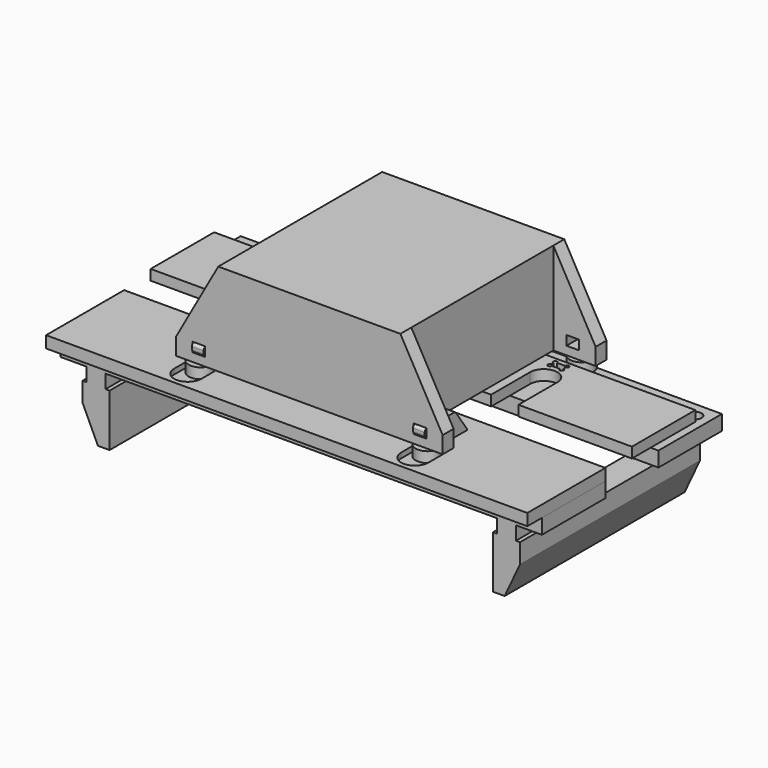
from build123d import *

# Parameters (mm, degrees)
PAD_DEPTH                       = 16
POCKET_DEPTH                    = 16.001
LINEARPATTERN_COUNT             = 2
LINEARPATTERN_PITCH             = 340
SKETCH003_R                     = 4.4
HOLE_DEPTH                      = 16.001
PAD001_DEPTH                    = 9
FILLET_R                        = 3
SKETCH004_R                     = 11
PAD002_DEPTH                    = 22
HOLE001_D                       = 8.8
HOLE001_CBORE_D                 = 16
HOLE001_CBORE_DEPTH             = 4.8
CHAMFER_SIZE                    = 1
BODY002_PLACEMENT_ANGLE         = 180
SKETCH006_W                     = 740
SKETCH006_H                     = 346
PAD005_DEPTH                    = 23
SKETCH010_W                     = 29
SKETCH010_H                     = 86.5
PAD006_DEPTH                    = 21
PAD007_DEPTH                    = 173
SKETCH012_W                     = 740
SKETCH012_H                     = 102
POCKET002_DEPTH                 = 23
SKETCH013_R                     = 10
POCKET003_DEPTH                 = 23
POLARPATTERN_COUNT              = 2
SKETCH007_W                     = 19.6
SKETCH007_H                     = 14.5
PAD003_DEPTH                    = 157.5
SKETCH009_W                     = 65
SKETCH009_H                     = 273
POCKET001_DEPTH                 = 158.001
SKETCH008_R                     = 18.5
PAD004_DEPTH                    = 16
SKETCH008_LINEARPATTERN001_2_R  = 18.5
PAD004_LINEARPATTERN001_2_DEPTH = 16
LINEARPATTERN002_COUNT          = 2
LINEARPATTERN002_PITCH          = 296
SKETCH014_W                     = 740
SKETCH014_H                     = 150
PAD008_DEPTH                    = 8
PAD008_DEPTH_BACK               = 10
POCKET004_DEPTH                 = 8.001
PAD009_DEPTH                    = 9
LINEARPATTERN003_COUNT          = 2
LINEARPATTERN003_PITCH          = 340
BODY006_PLACEMENT_ANGLE         = 180


with BuildPart() as grundplatte:
    # Sketch → Pad (new body)
    with BuildSketch(Plane.XY):
        with BuildLine():
            Line((-370, 122), (370, 122))
            Line((370, 122), (370, 0))
            Line((370, 0), (195.5, 0))
            Line((195.5, 75), (195.5, 0))
            ThreePointArc((195.5, 75), (174.5, 96), (153.5, 75))
            Line((153.5, 75), (153.5, 0))
            Line((153.5, 0), (-153.5, 0))
            Line((-153.5, 75), (-153.5, 0))
            ThreePointArc((-153.5, 75), (-174.5, 96), (-195.5, 75))
            Line((-195.5, 75), (-195.5, 0))
            Line((-195.5, 0), (-370, 0))
            Line((-370, 0), (-370, 122))
        make_face()
    extrude(amount=PAD_DEPTH)

    # Sketch002 → Pocket (cut, through all)
    with BuildSketch(Plane.XY):
        with BuildLine():
            Line((-160.9, 111), (-160.9, 106.9))
            ThreePointArc((-163.9, 103.9), (-158.77868, 101.77868), (-160.9, 106.9))
            Line((-176.1, 103.9), (-163.9, 103.9))
            ThreePointArc((-179.1, 106.9), (-181.22132, 101.77868), (-176.1, 103.9))
            Line((-179.1, 106.9), (-179.1, 111))
            ThreePointArc((-176.1, 114), (-181.22132, 116.12132), (-179.1, 111))
            Line((-176.1, 114), (-163.9, 114))
            ThreePointArc((-160.9, 111), (-158.77868, 116.12132), (-163.9, 114))
        make_face()
    pocket = extrude(amount=POCKET_DEPTH, mode=Mode.SUBTRACT)

    # LinearPattern: Pocket ×2
    with Locations(*[(i * LINEARPATTERN_PITCH, 0, 0) for i in range(1, LINEARPATTERN_COUNT)]):
        add(pocket, mode=Mode.SUBTRACT)

    # Sketch003 (on Face5 of LinearPattern) → Hole (cut, through all)
    with BuildSketch(Plane.XY.offset(16)):
        with Locations((-76, 22)):
            Circle(SKETCH003_R)
        with Locations((76, 22)):
            Circle(SKETCH003_R)
    extrude(amount=-HOLE_DEPTH, mode=Mode.SUBTRACT)


with BuildPart() as haken:
    # Sketch001 → Pad001 (new body, symmetric)
    with BuildSketch(Plane.YZ):
        Polygon((-30, 58), (-30, 46.76327), (-20, 45), (-10, 45), (-10, 0), (0, 0), (0, 58), align=None)
    extrude(amount=PAD001_DEPTH, both=True)

    # Fillet
    fillet_edges = [haken.edges().sort_by_distance(p)[0] for p in [
        (0, -30, 58),
        (0, -30, 46.76327),
        (0, 0, 58),
        (0, -10, 45),
        (0, -20, 45),
    ]]
    fillet(fillet_edges, radius=FILLET_R)


with BuildPart() as haken_1:
    # Body001 placement: moved
    add(haken.part.moved(Location((-170, 114, 0))))


with BuildPart() as obj1:
    # Sketch004 → Pad002 (new body)
    with BuildSketch(Plane.XY):
        Circle(SKETCH004_R)
    extrude(amount=PAD002_DEPTH)

    # Hole001 (through all)
    with Locations(Plane.XY.offset(22)):
        with Locations((0, 0)):
            CounterBoreHole(HOLE001_D / 2, HOLE001_CBORE_D / 2, HOLE001_CBORE_DEPTH)

    # Chamfer
    chamfer_edges = [obj1.edges().sort_by_distance(p)[0] for p in [
        (-11, 0, 22),
    ]]
    chamfer(chamfer_edges, length=CHAMFER_SIZE)


with BuildPart() as obj1_1:
    # Body002 placement: moved
    add(obj1.part.moved(Location((-76, 22, 0))).rotate(Axis((-76, 22, 0), (1, 0, 0)), BODY002_PLACEMENT_ANGLE))


with BuildPart() as workbench:
    # Sketch006 → Pad005 (new body)
    with BuildSketch(Plane.XY):
        Rectangle(SKETCH006_W, SKETCH006_H)
    extrude(amount=-PAD005_DEPTH)

    # Sketch010 (on Face6 of Pad005) → Pad006 (join)
    with BuildSketch(Plane(origin=(0, 0, -23), x_dir=(1, 0, 0), z_dir=(0, 0, -1))):
        with Locations((-315.5, 129.75)):
            Rectangle(SKETCH010_W, SKETCH010_H)
        with Locations((-315.5, -129.75)):
            Rectangle(SKETCH010_W, SKETCH010_H)
        with Locations((315.5, -129.75)):
            Rectangle(SKETCH010_W, SKETCH010_H)
        with Locations((315.5, 129.75)):
            Rectangle(SKETCH010_W, SKETCH010_H)
    extrude(amount=PAD006_DEPTH)

    # Sketch011 → Pad007 (join, symmetric)
    with BuildSketch(Plane.XZ):
        Polygon((-294.75, -44), (-294.75, -124.5), (-312.701463, -124.5), (-336.25, -74), (-336.25, -44), align=None)
        Polygon((294.75, -44), (336.25, -44), (336.25, -74), (312.701463, -124.5), (294.75, -124.5), align=None)
    extrude(amount=PAD007_DEPTH, both=True)

    # Sketch012 → Pocket002 (cut)
    with BuildSketch(Plane.XY):
        Rectangle(SKETCH012_W, SKETCH012_H)
    extrude(amount=-POCKET002_DEPTH, mode=Mode.SUBTRACT)

    # Sketch013 → Pocket003 (cut)
    with BuildSketch(Plane.XY):
        with Locations((347.5, 149.5)):
            Circle(SKETCH013_R)
        with Locations((347.5, 74.5)):
            Circle(SKETCH013_R)
        with Locations((205, 149.5)):
            Circle(SKETCH013_R)
        with Locations((0, 149.5)):
            Circle(SKETCH013_R)
        with Locations((75, 74.5)):
            Circle(SKETCH013_R)
        with Locations((0, 74.5)):
            Circle(SKETCH013_R)
        with Locations((-75, 74.5)):
            Circle(SKETCH013_R)
        with Locations((-347.5, 149.5)):
            Circle(SKETCH013_R)
        with Locations((-347.5, 74.5)):
            Circle(SKETCH013_R)
        with Locations((-205, 149.5)):
            Circle(SKETCH013_R)
    pocket003 = extrude(amount=-POCKET003_DEPTH, mode=Mode.SUBTRACT)

    # PolarPattern: Pocket003 ×2 about axis
    polarpattern_axis = Axis((0, 0, 0), (0, 0, 1))
    for i in range(1, POLARPATTERN_COUNT):
        add(pocket003.rotate(polarpattern_axis, i * 360 / POLARPATTERN_COUNT), mode=Mode.SUBTRACT)


with BuildPart() as workbench_1:
    # Body003 placement: moved
    add(workbench.part.moved(Location((0, 0, -10))))


with BuildPart() as obj2:
    # Sketch007 → Pad003 (new body, symmetric)
    with BuildSketch(Plane.XZ):
        Polygon((-205, 16), (205, 16), (205, 42), (140, 158), (-140, 158), (-205, 42), align=None)
        with Locations((-170, 36.25)):
            Rectangle(SKETCH007_W, SKETCH007_H, mode=Mode.SUBTRACT)
        with Locations((170, 36.25)):
            Rectangle(SKETCH007_W, SKETCH007_H, mode=Mode.SUBTRACT)
    extrude(amount=PAD003_DEPTH, both=True)

    # Sketch009 → Pocket001 (cut, through all)
    with BuildSketch(Plane.XY):
        with Locations((-172.5, 0)):
            Rectangle(SKETCH009_W, SKETCH009_H)
        with Locations((172.5, 0)):
            Rectangle(SKETCH009_W, SKETCH009_H)
    extrude(amount=POCKET001_DEPTH, mode=Mode.SUBTRACT)

    # Sketch008 → Pad004 (join)
    with BuildSketch(Plane.XY):
        with Locations((-174.5, -148)):
            Circle(SKETCH008_R)
    pad004 = extrude(amount=PAD004_DEPTH)

    # Sketch008 LinearPattern001 2 → Pad004 LinearPattern001 2 (add)
    with BuildSketch(Plane(origin=(349, 0, 0), x_dir=(1, 0, 0), z_dir=(0, 0, 1))):
        with Locations((-174.5, -148)):
            Circle(SKETCH008_LINEARPATTERN001_2_R)
    pad004_linearpattern001_2 = extrude(amount=PAD004_LINEARPATTERN001_2_DEPTH)

    # LinearPattern002: Pad004, Pad004 LinearPattern001 2 ×2
    with Locations(*[(0, i * LINEARPATTERN002_PITCH, 0) for i in range(1, LINEARPATTERN002_COUNT)]):
        add(pad004)
        add(pad004_linearpattern001_2)


with BuildPart() as body006:
    # Sketch014 → Pad008 (new body, two sides)
    with BuildSketch(Plane.XY) as pad008_sk:
        with Locations((0, 126)):
            Rectangle(SKETCH014_W, SKETCH014_H)
    extrude(amount=PAD008_DEPTH)
    extrude(pad008_sk.sketch, amount=-PAD008_DEPTH_BACK)

    # Sketch015 → Pocket004 (cut, through all)
    with BuildSketch(Plane.XY):
        with BuildLine():
            ThreePointArc((-153.5, 173), (-174.5, 194), (-195.5, 173))
            Line((-195.5, 173), (-195.5, 148))
            ThreePointArc((-195.5, 148), (-174.5, 127), (-153.5, 148))
            Line((-153.5, 173), (-153.5, 148))
        make_face()
        with BuildLine():
            ThreePointArc((195.5, 173), (174.5, 194), (153.5, 173))
            Line((153.5, 173), (153.5, 148))
            ThreePointArc((153.5, 148), (174.5, 127), (195.5, 148))
            Line((195.5, 173), (195.5, 148))
        make_face()
    extrude(amount=POCKET004_DEPTH, mode=Mode.SUBTRACT)

    # Sketch016 (on DatumPlane) → Pad009 (join, symmetric)
    with BuildSketch(Plane.YZ.offset(-170)):
        with BuildLine():
            Line((102.871684, 42), (155.5, 42))
            ThreePointArc((159.5, 38), (158.328427, 40.828427), (155.5, 42))
            Line((159.5, 38), (159.5, 33.665933))
            ThreePointArc((155.639598, 29.668369), (158.377359, 30.887299), (159.5, 33.665933))
            Line((155.639598, 29.668369), (138.493112, 29.069601))
            ThreePointArc((138.493112, 29.069601), (136.724074, 28.587306), (135.356101, 27.366343))
            Line((135.356101, 27.366343), (123.919449, 11.033111))
            ThreePointArc((123.919449, 11.033111), (123.381189, 9.941628), (123.196057, 8.738805))
            Line((123.196057, 8.738805), (123.196057, 0))
            Line((123.196057, 0), (78.382774, 0))
            Line((78.382774, 0), (78.382774, 8.738805))
            ThreePointArc((79.106166, 11.033111), (78.567907, 9.941628), (78.382774, 8.738805))
            Line((79.106166, 11.033111), (99.595076, 40.294306))
            ThreePointArc((102.871684, 42), (101.024689, 41.548043), (99.595076, 40.294306))
        make_face()
    pad009 = extrude(amount=PAD009_DEPTH, both=True)

    # LinearPattern003: Pad009 ×2
    with Locations(*[(i * LINEARPATTERN003_PITCH, 0, 0) for i in range(1, LINEARPATTERN003_COUNT)]):
        add(pad009)


with BuildPart() as body006_1:
    # Body006 placement: moved
    add(body006.part.rotate(Axis((0, 0, 0), (0, 0, 1)), BODY006_PLACEMENT_ANGLE))


solid = Compound([grundplatte.part, haken_1.part, obj1_1.part, workbench_1.part, obj2.part, body006_1.part])
